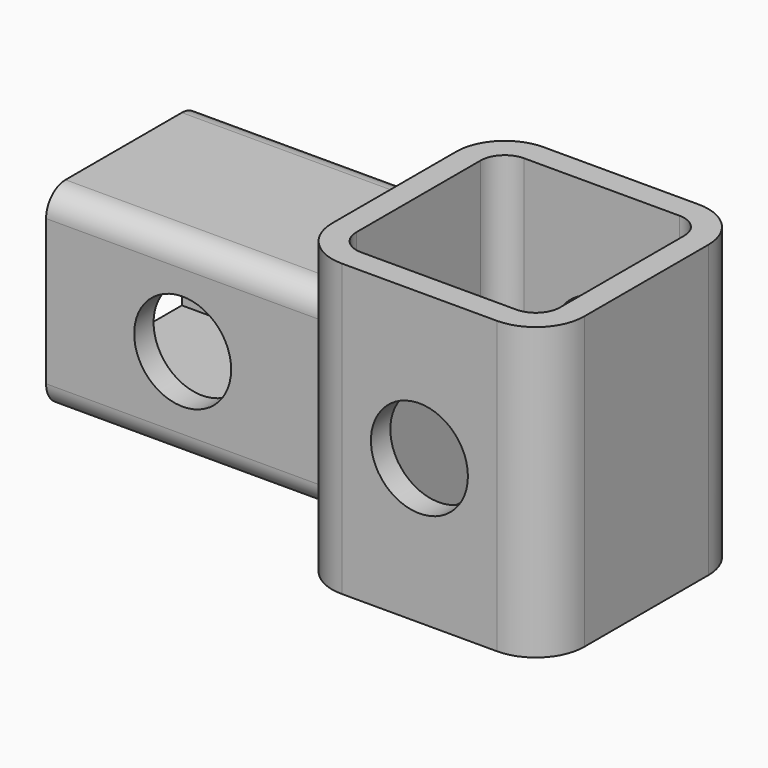
from build123d import *

# Parameters (mm, degrees)
F1_DEPTH      = 38.1
F2_R          = 12.7
F3_DEPTH      = 59.6909986267
F3_DEPTH_BACK = 25.4
F4_W          = 38.0999967456
F4_H          = 38.0999967456
F5_DEPTH      = 76.2
F6_R          = 12.7
F7_DEPTH      = 59.6909987267


with BuildPart() as f1:
    # F0 (on Top) → F1 (new body, symmetric)
    with BuildSketch(Plane.XY):
        with BuildLine():
            Line((46.99, 59.6899986267), (6.35, 59.6899986267))
            ThreePointArc((6.35, 59.6899986267), (-2.63025515, 55.97025515), (-6.3499986267, 46.99))
            Line((-6.3499986267, 46.99), (-6.3499986267, 6.35))
            ThreePointArc((-6.3499986267, 6.35), (-2.63025515, -2.63025515), (6.35, -6.3499986267))
            Line((6.35, -6.3499986267), (46.99, -6.3499986267))
            ThreePointArc((46.99, -6.3499986267), (55.97025515, -2.63025515), (59.6899986267, 6.35))
            Line((59.6899986267, 6.35), (59.6899986267, 46.99))
            ThreePointArc((59.6899986267, 46.99), (55.97025515, 55.97025515), (46.99, 59.6899986267))
        make_face()
        with BuildLine():
            Line((46.99, 0), (6.35, 0))
            ThreePointArc((6.35, 0), (1.8598719395, 1.8598719395), (0, 6.35))
            Line((0, 6.35), (0, 46.99))
            ThreePointArc((0, 46.99), (1.8598719395, 51.4801280605), (6.35, 53.34))
            Line((6.35, 53.34), (46.99, 53.34))
            ThreePointArc((46.99, 53.34), (51.4801280605, 51.4801280605), (53.34, 46.99))
            Line((53.34, 46.99), (53.34, 6.35))
            ThreePointArc((53.34, 6.35), (51.4801280605, 1.8598719395), (46.99, 0))
        make_face(mode=Mode.SUBTRACT)
    extrude(amount=F1_DEPTH, both=True)

    # F2 (on Front) → F3 (cut, two sides)
    with BuildSketch(Plane.XZ) as f3_sk:
        with Locations((26.67, -0.2257099867)):
            Circle(F2_R)
    extrude(amount=-F3_DEPTH, mode=Mode.SUBTRACT)
    extrude(f3_sk.sketch, amount=F3_DEPTH_BACK, mode=Mode.SUBTRACT)

    # F4 (on Right) → F5 (join)
    with BuildSketch(Plane.YZ):
        with BuildLine():
            ThreePointArc((50.8, 19.05), (48.9401280605, 23.5401280605), (44.45, 25.4))
            Line((44.45, 25.4), (6.35, 25.4))
            ThreePointArc((6.35, 25.4), (1.8598719395, 23.5401280605), (0, 19.05))
            Line((0, 19.05), (0, -19.05))
            ThreePointArc((0, -19.05), (1.8598719395, -23.5401280605), (6.35, -25.4))
            Line((6.35, -25.4), (44.45, -25.4))
            ThreePointArc((44.45, -25.4), (48.9401280605, -23.5401280605), (50.8, -19.05))
            Line((50.8, -19.05), (50.8, 19.05))
        make_face()
        with Locations((25.4, 0)):
            Rectangle(F4_W, F4_H, mode=Mode.SUBTRACT)
    extrude(amount=-F5_DEPTH)

    # F6 (on Front) → F7 (cut, through all)
    with BuildSketch(Plane.XZ):
        with Locations((-40.4242605212, 0)):
            Circle(F6_R)
    extrude(amount=-F7_DEPTH, mode=Mode.SUBTRACT)


solid = f1.part
